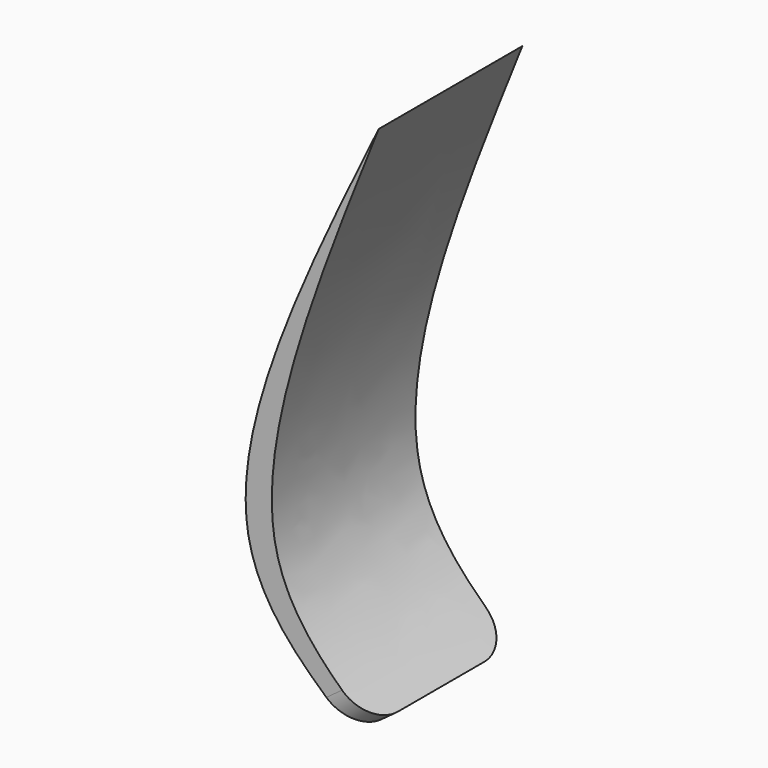
from build123d import *

# Parameters (mm, degrees)
F1_DEPTH = 25.4
F2_R     = 5.08
F4_DEPTH = 19.05


with BuildPart() as f1:
    # F0 (on Front) → F1 (new body)
    with BuildSketch(Plane.XZ):
        with BuildLine():
            add(Edge.make_bspline(
                [(-31.2210861593, -18.9999882132), (-37.1420167425, -13.7320297606), (-52.4138535448, -0.1444018296), (-38.4403460871, 34.7062347556), (-29.8844035715, 56.0451894999)],
                knots=[0, 0, 0, 0, 0.3877025835, 1, 1, 1, 1], degree=3))
            add(Edge.make_bspline(
                [(-29.8844035715, 56.0451894999), (-40.2315032805, 34.8691003108), (-57.3760806559, -0.2185193917), (-40.1509864608, -14.7615918115), (-33.3215855062, -20.5276254565)],
                knots=[0, 0, 0, 0, 0.603520255, 1, 1, 1, 1], degree=3))
            Line((-33.3215855062, -20.5276254565), (-31.2210861593, -18.9999882132))
        make_face()
    extrude(amount=F1_DEPTH)

    # F2
    f2_edges = [f1.edges().sort_by_distance(p)[0] for p in [
        (-32.271336, 0, -19.763807),
        (-32.271336, -25.4, -19.763807),
    ]]
    fillet(f2_edges, radius=F2_R)

    # F3 (on face) → F4 (join)
    with BuildSketch(Plane.XZ.offset(25.4)):
        with BuildLine():
            Line((-37.2815900806, -17.1262230295), (-35.0597391764, -15.5103300302))
            add(Edge.make_bspline(
                [(-35.0597391764, -15.5103300302), (-35.820905502, -14.787798895), (-36.5649922945, -14.0528499794), (-37.2815900806, -13.2979150116)],
                knots=[0.0847886042, 0.0847886042, 0.0847886042, 0.0847886042, 0.1364647642, 0.1364647642, 0.1364647642, 0.1364647642], degree=3))
            Line((-37.2815900806, -13.2979150116), (-39.0489816205, -15.5103300302))
            add(Edge.make_bspline(
                [(-39.0489816205, -15.5103300302), (-38.4711466299, -16.0557129537), (-37.8806834298, -16.5935473371), (-37.2815900805, -17.1262230297)],
                knots=[0.8867275977, 0.8867275977, 0.8867275977, 0.8867275977, 0.9225893612, 0.9225893612, 0.9225893612, 0.9225893612], degree=3))
        make_face()
    extrude(amount=-F4_DEPTH)


solid = f1.part
